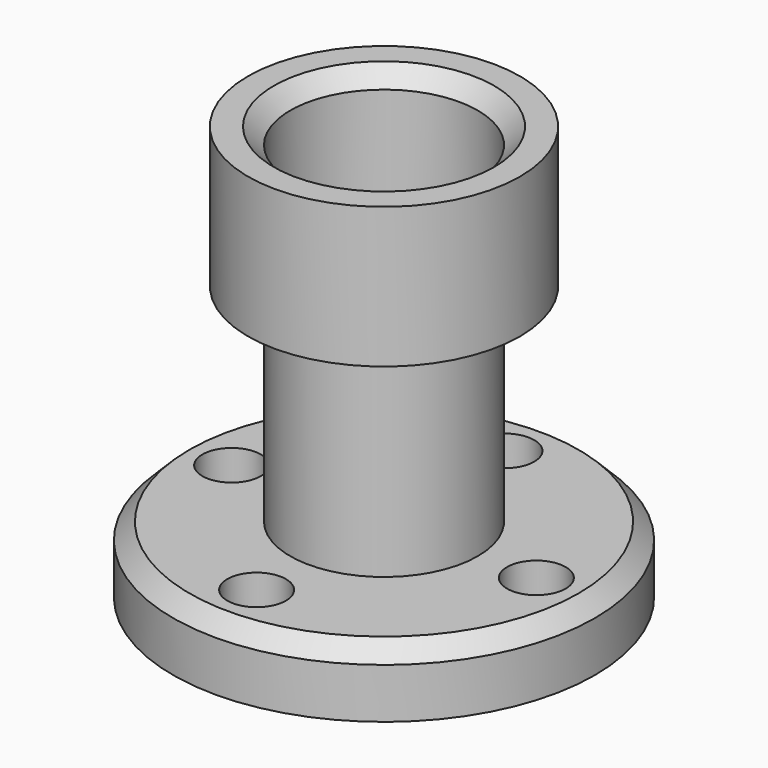
from build123d import *

# Parameters (mm, degrees)
F2_R     = 158.75
F3_DEPTH = 360.68
F4_DEPTH = 360.68
F5_DEPTH = 360.68
F6_DEPTH = 360.68
F7_SIZE  = 88.9
F8_SIZE  = 88.9
F9_SIZE  = 88.9


with BuildPart() as f1:
    # F0 (on Front) → F1 (revolve)
    with BuildSketch(Plane.XZ):
        Polygon((228.8821290832, 0), (0, 0), (0, -609.6), (-127, -609.6), (-127, -2245.36), (635, -2245.36), (635, -1884.68), (0, -1884.68), (0, -762), (228.8821290832, -762), align=None)
    revolve(axis=Axis((-508, 0, -886.3016366959), (0, 0, -1)))

    # F2 (on face) → F3 (cut)
    with BuildSketch(Plane.XY.offset(-1884.68)):
        with Locations((-1333.5, 0)):
            Circle(F2_R)
    extrude(amount=-F3_DEPTH, mode=Mode.SUBTRACT)

    # F2 (on face) → F4 (cut)
    with BuildSketch(Plane.XY.offset(-1884.68)):
        with Locations((-537.7423167229, -825.5)):
            Circle(F2_R)
    extrude(amount=-F4_DEPTH, mode=Mode.SUBTRACT)

    # F2 (on face) → F5 (cut)
    with BuildSketch(Plane.XY.offset(-1884.68)):
        with Locations((317.5, 0)):
            Circle(F2_R)
    extrude(amount=-F5_DEPTH, mode=Mode.SUBTRACT)

    # F2 (on face) → F6 (cut)
    with BuildSketch(Plane.XY.offset(-1884.68)):
        with Locations((-512.9044055939, 825.5)):
            Circle(F2_R)
    extrude(amount=-F6_DEPTH, mode=Mode.SUBTRACT)

    # F7
    f7_edges = [f1.edges().sort_by_distance(p)[0] for p in [
        (-889, 0, -2245.36),
    ]]
    chamfer(f7_edges, length=F7_SIZE)

    # F8
    f8_edges = [f1.edges().sort_by_distance(p)[0] for p in [
        (-1016, 0, 0),
    ]]
    chamfer(f8_edges, length=F8_SIZE)

    # F9
    f9_edges = [f1.edges().sort_by_distance(p)[0] for p in [
        (-1651, 0, -1884.68),
    ]]
    chamfer(f9_edges, length=F9_SIZE)


solid = f1.part
